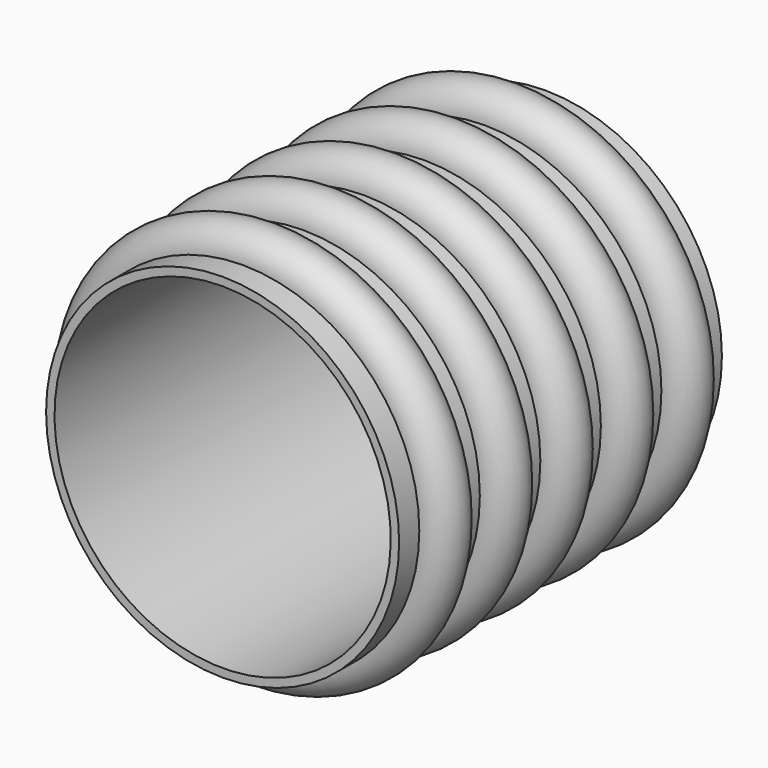
from build123d import *


with BuildPart() as f1:
    # F0 (on Right) → F1 (revolve)
    with BuildSketch(Plane.YZ):
        with BuildLine():
            Line((-41.275, 16.66875), (-41.275, 15.875))
            Line((-41.275, 15.875), (-3.175, 15.875))
            Line((-3.175, 15.875), (-3.175, 16.66875))
            Line((-3.175, 16.66875), (-5.55625, 16.66875))
            ThreePointArc((-5.55625, 16.66875), (-7.9375, 19.05), (-10.31875, 16.66875))
            Line((-10.31875, 16.66875), (-12.7, 16.66875))
            ThreePointArc((-12.7, 16.66875), (-15.08125, 19.05), (-17.4625, 16.66875))
            Line((-17.4625, 16.66875), (-19.84375, 16.66875))
            ThreePointArc((-19.84375, 16.66875), (-22.225, 19.05), (-24.60625, 16.66875))
            Line((-24.60625, 16.66875), (-26.9875, 16.66875))
            ThreePointArc((-26.9875, 16.66875), (-29.36875, 19.05), (-31.75, 16.66875))
            Line((-31.75, 16.66875), (-34.13125, 16.66875))
            ThreePointArc((-34.13125, 16.66875), (-36.5125, 19.05), (-38.89375, 16.66875))
            Line((-38.89375, 16.66875), (-41.275, 16.66875))
        make_face()
    revolve(axis=Axis((0, 0, 0), (0, -1, 0)))


solid = f1.part
